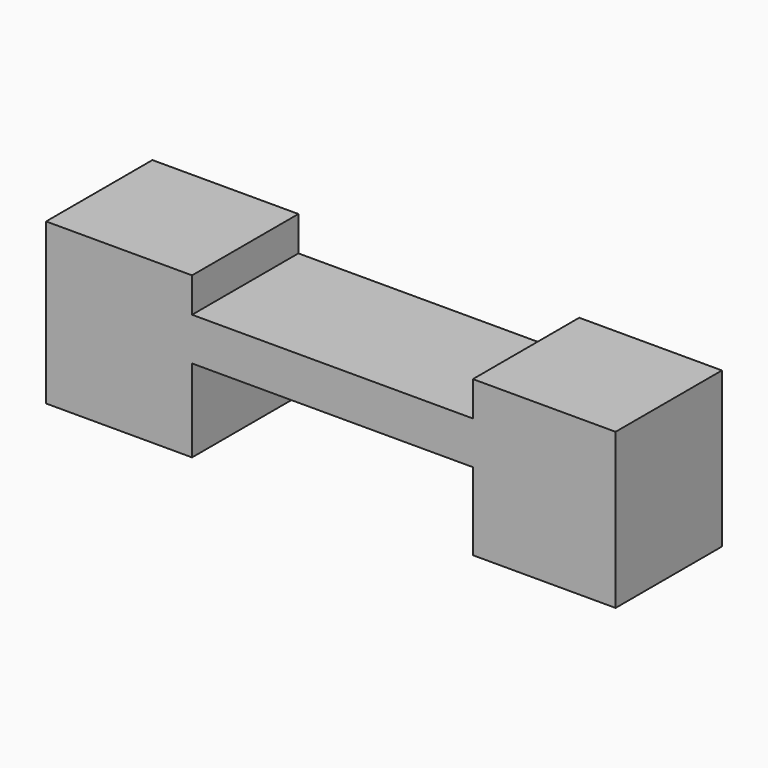
from build123d import *

# Parameters (mm, degrees)
F0_W     = 53.665504
F0_H     = 8.189502
F1_DEPTH = 25.4


with BuildPart() as f1:
    # F0 (on Front) → F1 (new body)
    with BuildSketch(Plane.XZ):
        Polygon((54.595027, -29.632112), (54.595027, 0), (27.327523, 0), (27.327523, -6.626554), (27.327523, -14.816056), (27.327523, -29.632112), align=None)
        Polygon((54.595027, -29.632112), (54.595027, 0), (27.327523, 0), (27.327523, -6.626554), (27.327523, -14.816056), (27.327523, -29.632112), align=None)
        with Locations((0.494771, -10.721305)):
            Rectangle(F0_W, F0_H)
        Polygon((-26.337981, -14.816056), (-26.337981, -6.626554), (-26.337981, 0), (-54.234706, 0), (-54.234706, -30.630995), (-26.337981, -30.630995), align=None)
        Polygon((-26.337981, -14.816056), (-26.337981, -6.626554), (-26.337981, 0), (-54.234706, 0), (-54.234706, -30.630995), (-26.337981, -30.630995), align=None)
    extrude(amount=F1_DEPTH)


solid = f1.part
